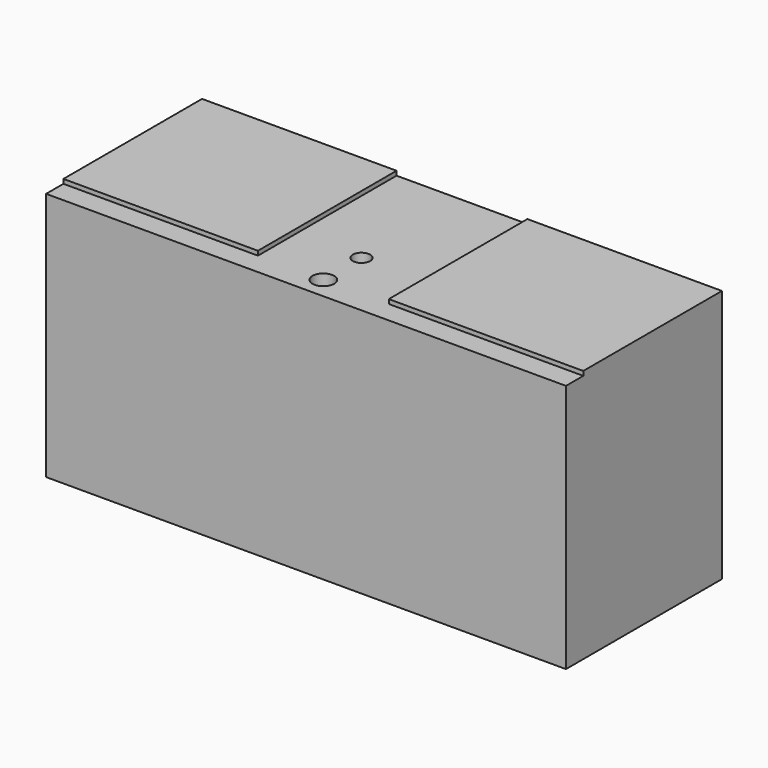
from build123d import *

# Parameters (mm, degrees)
F0_W     = 152.4
F0_H     = 57.15
F1_DEPTH = 74.3712
F2_W     = 152.4
F2_H     = 6.35
F3_DEPTH = 1.27
F5_DEPTH = 74.3722
F7_DEPTH = 1.27
F8_D     = 5.1054
F8_DEPTH = 12.7
F8_START = 1.27
F8_TIP   = 1.5338169022


with BuildPart() as f1:
    # F0 (on Top) → F1 (new body)
    with BuildSketch(Plane.XY):
        with Locations((-76.2, 28.575)):
            Rectangle(F0_W, F0_H)
    extrude(amount=-F1_DEPTH)

    # F2 (on face) → F3 (cut)
    with BuildSketch(Plane.XY):
        with Locations((-76.2, 3.175)):
            Rectangle(F2_W, F2_H)
    extrude(amount=-F3_DEPTH, mode=Mode.SUBTRACT)

    # F4 (on face) → F5 (cut, through all)
    with BuildSketch(Plane.XY):
        with BuildLine():
            Line((-79.375, 6.35), (-73.025, 6.35))
            ThreePointArc((-73.025, 6.35), (-76.2, 9.525), (-79.375, 6.35))
        make_face()
        with BuildLine():
            ThreePointArc((-79.375, 6.35), (-76.2, 3.175), (-73.025, 6.35))
            Line((-73.025, 6.35), (-79.375, 6.35))
        make_face()
    extrude(amount=-F5_DEPTH, mode=Mode.SUBTRACT)

    # F6 (on face) → F7 (cut)
    with BuildSketch(Plane.XY):
        with BuildLine():
            Line((-95.377, 6.35), (-79.375, 6.35))
            ThreePointArc((-79.375, 6.35), (-76.2, 9.525), (-73.025, 6.35))
            Line((-73.025, 6.35), (-57.023, 6.35))
            Line((-57.023, 6.35), (-57.023, 57.15))
            Line((-57.023, 57.15), (-95.377, 57.15))
            Line((-95.377, 57.15), (-95.377, 6.35))
        make_face()
    extrude(amount=-F7_DEPTH, mode=Mode.SUBTRACT)

    # F8
    # its depths count from where the whole tool has entered the part; down to there all is cleared
    with Locations(Plane.XY.offset(-F8_START)):
        with Locations((-76.2, 20.32)):
            Hole(F8_D / 2, depth=F8_DEPTH)
            with Locations((0, 0, -(F8_DEPTH + F8_TIP / 2))):  # 118° drill point
                Cone(0, F8_D / 2, F8_TIP, mode=Mode.SUBTRACT)


solid = f1.part
